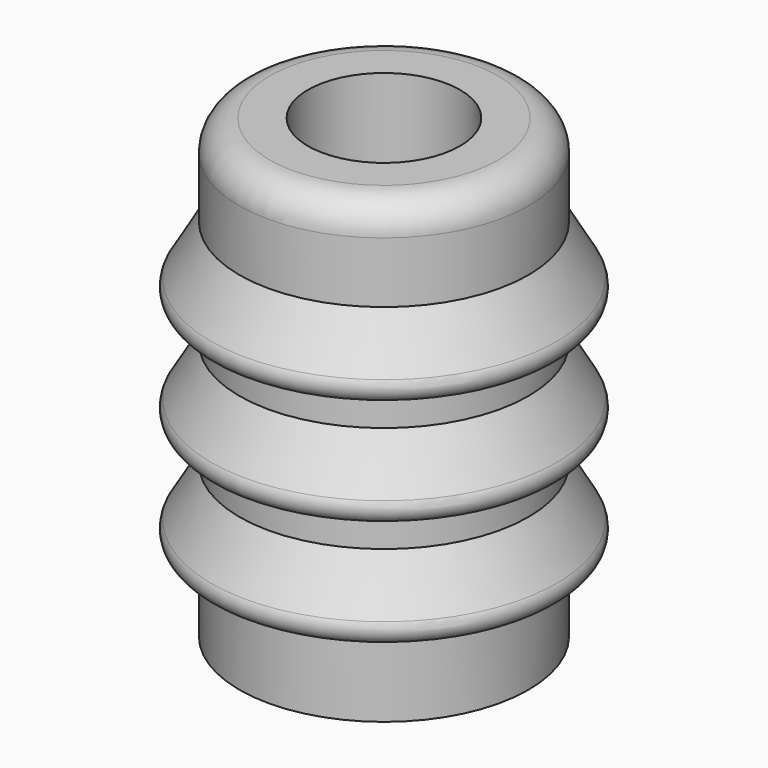
from build123d import *

# Parameters (mm, degrees)
F0_R     = 1.9
F0_R_2   = 1
F1_DEPTH = 6
F2_R     = 0.4


with BuildPart() as f1:
    # F0 (on Top) → F1 (new body)
    with BuildSketch(Plane.XY):
        Circle(F0_R)
        Circle(F0_R_2, mode=Mode.SUBTRACT)
    extrude(amount=F1_DEPTH)

    # F2
    f2_edges = [f1.edges().sort_by_distance(p)[0] for p in [
        (-1.9, 0, 6),
    ]]
    fillet(f2_edges, radius=F2_R)

    # F3 (on Front) → F4 (revolve)
    with BuildSketch(Plane.XZ):
        with BuildLine():
            Line((-1.9, 3.85359), (-1.9, 4.8))
            Line((-1.9, 4.8), (-2.273205, 4.15359))
            ThreePointArc((-2.273205, 4.15359), (-2.273205, 3.95359), (-2.1, 3.85359))
            Line((-2.1, 3.85359), (-1.9, 3.85359))
        make_face()
        with BuildLine():
            Line((-2.1, 2.45359), (-1.9, 2.45359))
            Line((-1.9, 2.45359), (-1.9, 3.4))
            Line((-1.9, 3.4), (-2.273205, 2.75359))
            ThreePointArc((-2.273205, 2.75359), (-2.273205, 2.55359), (-2.1, 2.45359))
        make_face()
        with BuildLine():
            Line((-2.1, 1.05359), (-1.9, 1.05359))
            Line((-1.9, 1.05359), (-1.9, 2))
            Line((-1.9, 2), (-2.273205, 1.35359))
            ThreePointArc((-2.273205, 1.35359), (-2.273205, 1.15359), (-2.1, 1.05359))
        make_face()
    revolve(axis=Axis((0, 0, 2.84007), (0, 0, -1)))


solid = f1.part
